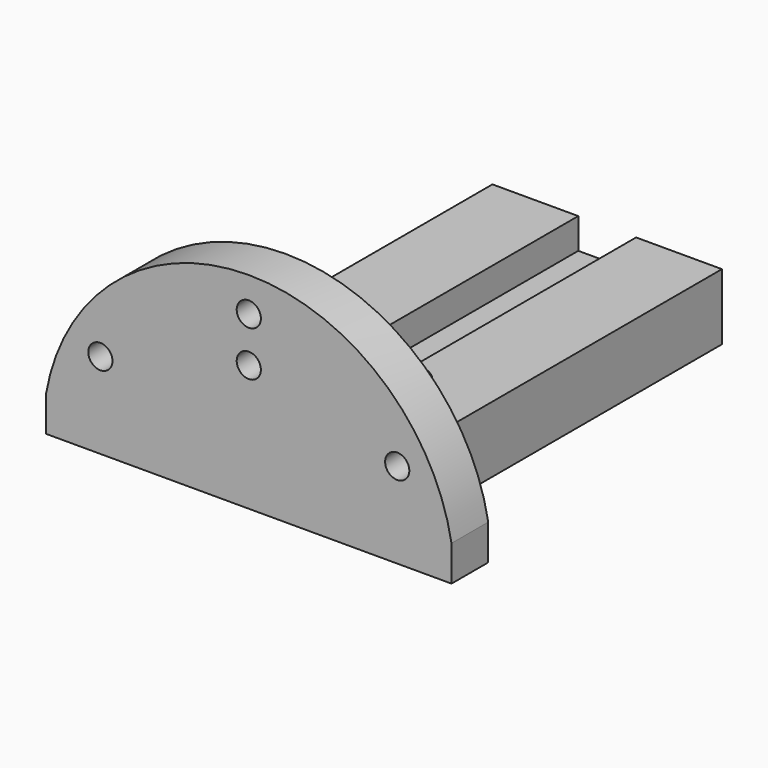
from build123d import *

# Parameters (mm, degrees)
PAD_DEPTH         = 4
SKETCH001_W       = 30
SKETCH001_H       = 58.56
PAD001_DEPTH      = 8.65
SKETCH002_R       = 1.58
PAD002_DEPTH      = 6
SKETCH003_R       = 1.58
POCKET_DEPTH      = 4.651
POCKET_DEPTH_BACK = 22.255879


with BuildPart() as key:
    # Sketch → Pad (new body)
    with BuildSketch(Plane.XY):
        with BuildLine():
            Line((-3.78, 0), (-3.78, 36))
            Line((-3.78, 36), (-4.11555, 36))
            ThreePointArc((-4.11555, 43.56), (-7.89555, 39.78), (-4.11555, 36))
            Line((-4.11555, 43.56), (4.11555, 43.56))
            ThreePointArc((4.11555, 36), (7.89555, 39.78), (4.11555, 43.56))
            Line((3.78, 36), (4.11555, 36))
            Line((3.78, 0), (3.78, 36))
            Line((-3.78, 0), (3.78, 0))
        make_face()
    pad = extrude(amount=PAD_DEPTH)

    # Mirrored: Pad across Sketch H_Axis
    add(pad.mirror(Plane.ZX))


with BuildPart() as cut:
    # Sketch001 → Pad001 (new body)
    with BuildSketch(Plane.XY.offset(-4.65)):
        with Locations((0, -29.28)):
            Rectangle(SKETCH001_W, SKETCH001_H)
    extrude(amount=PAD001_DEPTH)

    # Sketch002 → Pad002 (join)
    with BuildSketch(Plane.XZ.offset(58.56)):
        with BuildLine():
            ThreePointArc((26.5, 0), (0, 22.254879), (-26.5, 0))
            Line((-26.5, -2.325), (-26.5, 0))
            Line((-26.5, -4.65), (-26.5, -2.325))
            Line((-26.5, -4.65), (26.5, -4.65))
            Line((26.5, 0), (26.5, -4.65))
        make_face()
        with Locations((-19.403194, 6.552439)):
            Circle(SKETCH002_R, mode=Mode.SUBTRACT)
        with Locations((19.403194, 6.552439)):
            Circle(SKETCH002_R, mode=Mode.SUBTRACT)
        with Locations((0, 17.754879)):
            Circle(SKETCH002_R, mode=Mode.SUBTRACT)
        with Locations((0, 11.854879)):
            Circle(SKETCH002_R, mode=Mode.SUBTRACT)
    extrude(amount=-PAD002_DEPTH)

    # Sketch003 → Pocket (cut, two sides)
    with BuildSketch(Plane.XY) as pocket_sk:
        with Locations((-4.11555, -39.78)):
            Circle(SKETCH003_R)
        with Locations((4.11555, -39.78)):
            Circle(SKETCH003_R)
    extrude(amount=-POCKET_DEPTH, mode=Mode.SUBTRACT)
    extrude(pocket_sk.sketch, amount=POCKET_DEPTH_BACK, mode=Mode.SUBTRACT)

    # Cut: cut key
    add(key.part, mode=Mode.SUBTRACT)


solid = cut.part
